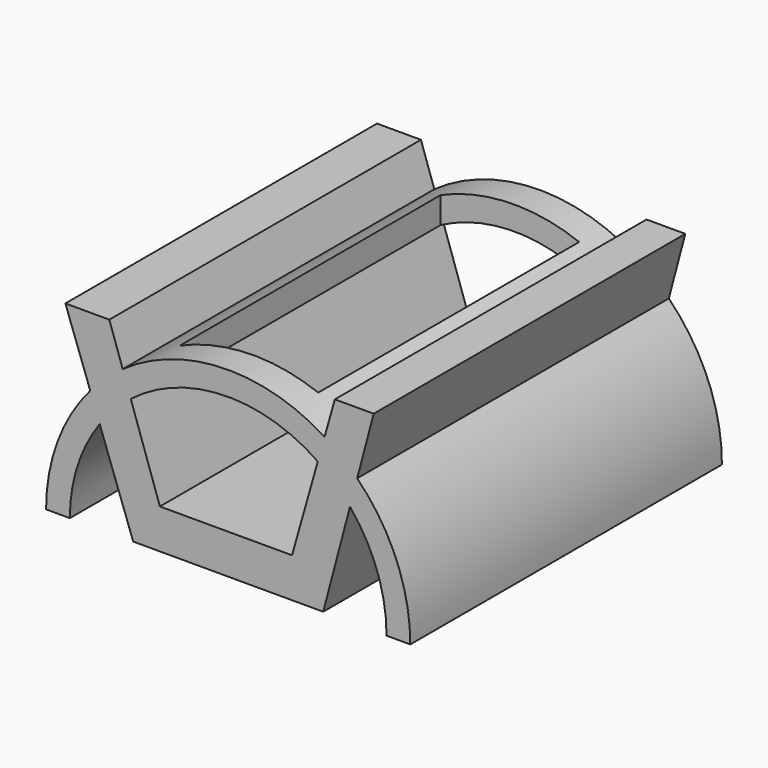
from build123d import *

# Parameters (mm, degrees)
F1_DEPTH = 624.84
F3_DEPTH = 624.84
F4_W     = 222.237472
F4_H     = 523.24
F5_DEPTH = 99.06


with BuildPart() as f1:
    # F0 (on Front) → F1 (new body)
    with BuildSketch(Plane.XZ):
        with BuildLine():
            Line((363.537534, -301.646389), (401.637534, -301.646389))
            ThreePointArc((401.637534, -301.646389), (109.905185, -8.813365), (-182.561408, -300.913066))
            Line((-182.561408, -300.913066), (-144.461408, -300.913066))
            ThreePointArc((-144.461408, -300.913066), (109.905254, -46.913399), (363.537534, -301.646389))
        make_face()
    extrude(amount=F1_DEPTH)

    # F2 (on face) → F3 (join)
    with BuildSketch(Plane.XZ.offset(624.84)):
        Polygon((-42.861408, -300.913399), (261.937534, -300.913399), (342.903882, 5.106361), (280.660063, 5.106361), (211.943924, -237.413399), (0, -237.413399), (-81.136086, 0), (-151.599751, 0), align=None)
    extrude(amount=-F3_DEPTH)

    # F4 (on face) → F5 (cut)
    with BuildSketch(Plane.XY.offset(5.106361)):
        with Locations((102.249414, -312.42)):
            Rectangle(F4_W, F4_H)
    extrude(amount=-F5_DEPTH, mode=Mode.SUBTRACT)


solid = f1.part
